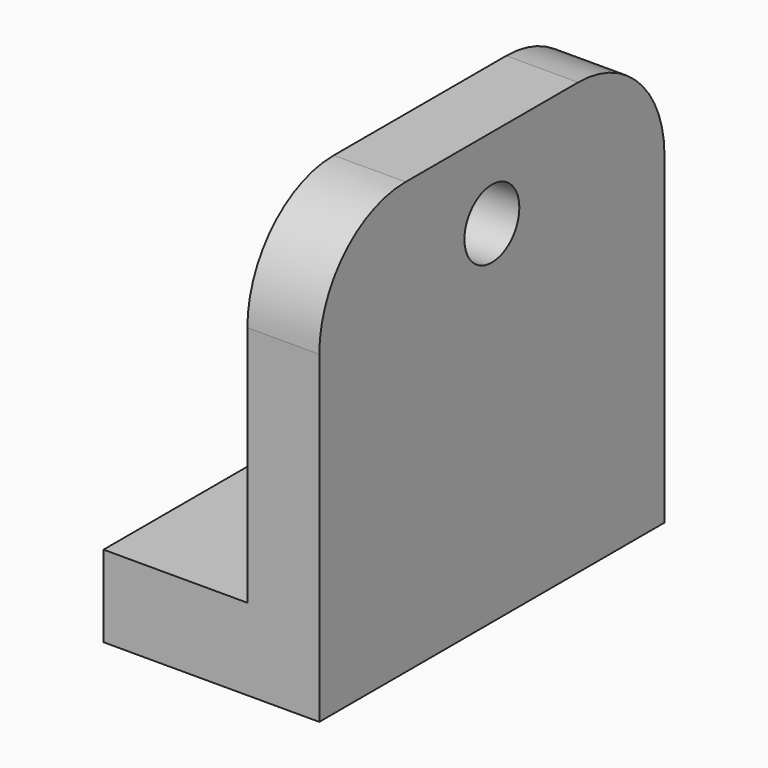
from build123d import *

# Parameters (mm, degrees)
F1_DEPTH  = 76.2
F1_FACE_W = 152.4
F1_FACE_H = 152.4
F2_DEPTH  = 25.4
F3_R      = 12.123607
F4_DEPTH  = 76.201
F6_DEPTH  = 28.794128
F8_DEPTH  = 25.401


with BuildPart() as f1:
    # F0 (on Front) → F1 (new body, symmetric)
    with BuildSketch(Plane.XZ):
        Polygon((-76.2, 0), (0, 0), (0, 152.4), (-25.4, 152.4), (-25.4, 28.793128), (-76.2, 28.793128), align=None)
    extrude(amount=F1_DEPTH, both=True)

    # F1_face (on face) → F2 (cut)
    with BuildSketch(Plane(origin=(0, 0, 76.2), x_dir=(0, 1, 0), z_dir=(1, 0, 0))):
        Rectangle(F1_FACE_W, F1_FACE_H)
    extrude(amount=F2_DEPTH, mode=Mode.SUBTRACT)

    # F3 (on face) → F4 (cut, through all)
    with BuildSketch(Plane.YZ):
        with Locations((0, 123.985767)):
            Circle(F3_R)
    extrude(amount=-F4_DEPTH, mode=Mode.SUBTRACT)

    # F5 (on face) → F6 (cut, through all)
    with BuildSketch(Plane.XY.offset(28.793128)):
        with BuildLine():
            Line((-63.5, 12.7), (-76.2, 12.7))
            Line((-76.2, 12.7), (-76.2, -12.7))
            Line((-76.2, -12.7), (-63.5, -12.7))
            ThreePointArc((-63.5, -12.7), (-50.8, 0), (-63.5, 12.7))
        make_face()
    extrude(amount=-F6_DEPTH, mode=Mode.SUBTRACT)

    # F7 (on face) → F8 (cut, through all)
    with BuildSketch(Plane(origin=(-25.4, 0, 0), x_dir=(0, -1, 0), z_dir=(-1, 0, 0))):
        with BuildLine():
            ThreePointArc((38.1, 152.4), (65.040768, 141.240768), (76.2, 114.3))
            Line((76.2, 114.3), (76.2, 152.4))
            Line((76.2, 152.4), (38.1, 152.4))
        make_face()
        with BuildLine():
            ThreePointArc((-76.2, 114.3), (-65.040768, 141.240768), (-38.1, 152.4))
            Line((-38.1, 152.4), (-76.2, 152.4))
            Line((-76.2, 152.4), (-76.2, 114.3))
        make_face()
    extrude(amount=-F8_DEPTH, mode=Mode.SUBTRACT)


solid = f1.part
